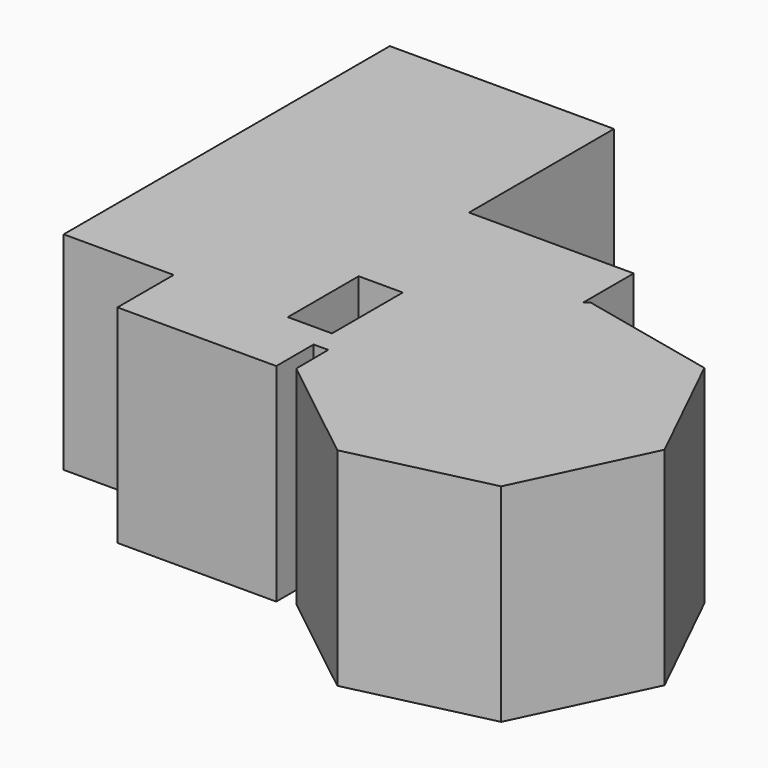
from build123d import *

# Parameters (mm, degrees)
F0_W     = 13.1786922227
F0_H     = 41.2089657038
F0_W_2   = 66.9952295721
F0_H_2   = 54.149620235
F0_W_3   = 34.1263301671
F0_H_3   = 26.4682687528
F1_DEPTH = 61.976


with BuildPart() as f1:
    # F0 (on Top) → F1 (new body)
    with BuildSketch(Plane.XY):
        Polygon((-49.2211245, 0), (-35.8841195703, 0), (-35.8841195703, 33.5169229656), (-36.0424322773, 33.5169229656), (-36.0424322773, 7.0486542129), (-49.2211245, 7.0486542129), align=None)
        Polygon((-31.6636036608, 30.3650720171), (-31.5128481644, 0), (0, 0), (0, 55.8741530566), align=None)
        with Locations((-42.6317783887, 54.1214058176)):
            Rectangle(F0_W, F0_H)
        Polygon((0, 0), (-31.5128481644, 0), (-31.4532000547, -12.0142826496), (1.8114981332, -38.2728779304), (43.0814946911, -28.637456001), (61.2796404565, 9.6363138989), (42.7023604934, 47.7275023921), (1.3387255216, 56.9526676245), (0, 55.8741530566), align=None)
        Polygon((-116.2163540721, 7.0486542129), (-83.3474546671, 7.0486542129), (-83.3474546671, 33.5169229656), (-49.2211245, 33.5169229656), (-49.2211245, 74.7258886695), (-116.2163540721, 74.7258886695), align=None)
        with Locations((-82.7187392861, 101.800698787)):
            Rectangle(F0_W_2, F0_H_2)
        with Locations((-66.2842895836, 20.2827885893)):
            Rectangle(F0_W_3, F0_H_3)
        Polygon((-35.8841195703, 33.5169229656), (-35.8841195703, 0), (-31.5128481644, 0), (-31.6636036608, 30.3650720171), (0, 55.8741530566), (0, 74.7258886695), (-36.0424322773, 74.7258886695), (-36.0424322773, 33.5169229656), align=None)
        Polygon((-83.3474546671, -13.9464121312), (-35.8841195703, -13.9464121312), (-35.8841195703, 0), (-49.2211245, 0), (-49.2211245, 7.0486542129), (-83.3474546671, 7.0486542129), align=None)
    extrude(amount=F1_DEPTH)


solid = f1.part
